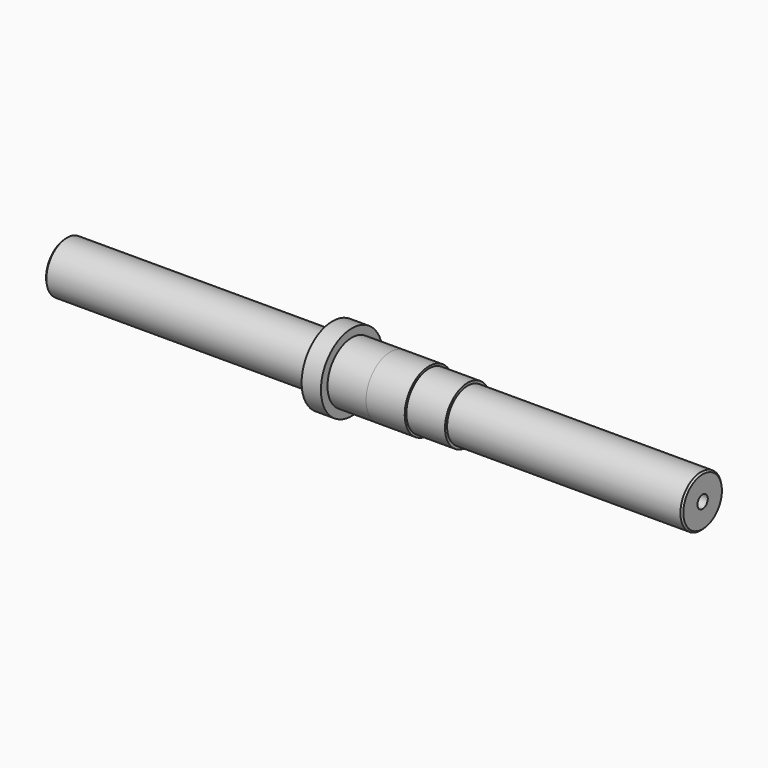
from build123d import *

# Parameters (mm, degrees)
F2_R     = 3.175
F3_DEPTH = 314.326
F4_SIZE  = 0.79375


with BuildPart() as f1:
    # F0 (on Front) → F1 (revolve)
    with BuildSketch(Plane.XZ):
        Polygon((0, 12.7), (0, 0), (314.325, 0), (314.325, 12.7), (198.4375, 12.7), (198.4375, 13.97), (179.3875, 13.97), (179.3875, 15.0114), (160.3375, 15.0114), (160.3375, 14.99997), (141.2875, 14.99997), (141.2875, 19.05), (131.7625, 19.05), (131.7625, 12.7), align=None)
    revolve(axis=Axis((157.1625, 0, 0), (1, 0, 0)))

    # F2 (on face) → F3 (cut, through all)
    with BuildSketch(Plane(origin=(0, 0, 0), x_dir=(0, -1, 0), z_dir=(-1, 0, 0))):
        Circle(F2_R)
    extrude(amount=-F3_DEPTH, mode=Mode.SUBTRACT)

    # F4
    f4_edges = [f1.edges().sort_by_distance(p)[0] for p in [
        (0, 0, -12.7),
        (314.325, 0, -12.7),
    ]]
    chamfer(f4_edges, length=F4_SIZE)


solid = f1.part
